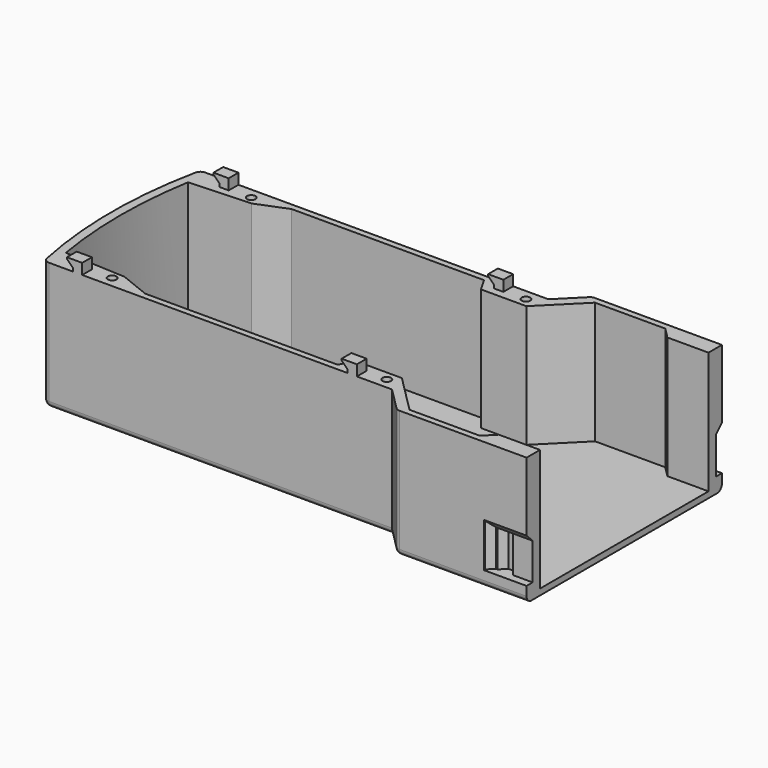
from build123d import *

# Parameters (mm, degrees)
EXTRUDE136072_DEPTH                     = 12
CHAMFER002_SIZE                         = 1
EXTRUDE136071_DEPTH                     = 15
CHAMFER001_SIZE                         = 2
SKETCH295_R                             = 1.4
EXTRUDE136074_DEPTH                     = 50
EXTRUDE136076_DEPTH                     = 4
EXTRUDE136076_ONTO_SKETCH296_ROLL_ANGLE = 90
EXTRUDE136075_DEPTH                     = 4
EXTRUDE136075_ONTO_SKETCH296_ROLL_ANGLE = 90
BOX022_W                                = 25
BOX022_H                                = 80
BOX022_DEPTH                            = 51
EXTRUDE136056_DEPTH                     = 40
EXTRUDE136055_DEPTH                     = 42
FILLET_R                                = 2


with BuildPart() as chamfer002:
    # Sketch293 → Extrude136072 (new body)
    with BuildSketch(Plane.XY):
        Polygon((0, 37.5), (5, 37.5), (5, 35.5), (2, 35.5), align=None)
        Polygon((0, -37.5), (5, -37.5), (5, -35.5), (2, -35.5), align=None)
    extrude(amount=-EXTRUDE136072_DEPTH)


with BuildPart() as chamfer002_1:
    # Extrude136072 placement: moved
    add(chamfer002.part.moved(Location((4, 0, 6))))

    # Chamfer002
    chamfer002_edges = [chamfer002_1.edges().sort_by_distance(p)[0] for p in [
        (7.5, -35.5, 6),
        (7.5, 35.5, 6),
    ]]
    chamfer(chamfer002_edges, length=CHAMFER002_SIZE)


with BuildPart() as fusion034004041070:
    # Sketch292 → Extrude136071 (new body)
    with BuildSketch(Plane.YZ):
        Polygon((-40, 8.5), (-37.5, 6), (-37.5, -6), (-40, -6), align=None)
        Polygon((40, 8.5), (37.5, 6), (37.5, -6), (40, -6), align=None)
    extrude(amount=EXTRUDE136071_DEPTH)

    # Chamfer001
    chamfer001_edges = [fusion034004041070.edges().sort_by_distance(p)[0] for p in [
        (0, 37.5, 0),
        (0, -37.5, 0),
    ]]
    chamfer(chamfer001_edges, length=CHAMFER001_SIZE)


with BuildPart() as fusion034004041070_1:
    # Chamfer001 placement: moved
    add(fusion034004041070.part.moved(Location((1.5, 0, 0))))

    # Fusion034004041070: union Chamfer002
    add(chamfer002_1.part)


with BuildPart() as fusion034004041070_2:
    # Fusion034004041070 placement: moved
    add(fusion034004041070_1.part.moved(Location((64.5, 0, -31))))


with BuildPart() as fusion034004041071:
    # Sketch295 → Extrude136074 (new body)
    with BuildSketch(Plane.XY):
        with Locations((-65, 28.5)):
            Circle(SKETCH295_R)
        with Locations((25, 28.5)):
            Circle(SKETCH295_R)
        with Locations((-65, -28.5)):
            Circle(SKETCH295_R)
        with Locations((25, -28.5)):
            Circle(SKETCH295_R)
    extrude(amount=-EXTRUDE136074_DEPTH)

    # Fusion034004041071: union Fusion034004041070
    add(fusion034004041070_2.part)


with BuildPart() as extrude136076:
    # Sketch296 as drawn → Extrude136076 (new)
    with BuildSketch(Plane.XY):
        Polygon((-77, 3.5), (-72, 3.5), (-72, 0), (-75, 0), (-75, 1), (-77, 3), align=None)
        Polygon((15, 0), (15, 1), (13, 3), (13, 3.5), (18, 3.5), (18, 0), align=None)
    extrude(amount=-EXTRUDE136076_DEPTH)


with BuildPart() as extrude136076_1:
    # Extrude136076 onto Sketch296 roll: moved
    add(extrude136076.part.rotate(Axis((0, 0, 0), (1, 0, 0)), EXTRUDE136076_ONTO_SKETCH296_ROLL_ANGLE))


with BuildPart() as extrude136076_2:
    # Extrude136076 onto Sketch296 placement: moved
    add(extrude136076_1.part.moved(Location((0, -2, 0))))


with BuildPart() as extrude136076_3:
    # Extrude136076 placement: moved
    add(extrude136076_2.part.moved(Location((0, -30, 0))))


with BuildPart() as fusion034004041067:
    # Sketch296 as drawn → Extrude136075 (new)
    with BuildSketch(Plane.XY):
        Polygon((-77, 3.5), (-72, 3.5), (-72, 0), (-75, 0), (-75, 1), (-77, 3), align=None)
        Polygon((15, 0), (15, 1), (13, 3), (13, 3.5), (18, 3.5), (18, 0), align=None)
    extrude(amount=-EXTRUDE136075_DEPTH)


with BuildPart() as fusion034004041067_1:
    # Extrude136075 onto Sketch296 roll: moved
    add(fusion034004041067.part.rotate(Axis((0, 0, 0), (1, 0, 0)), EXTRUDE136075_ONTO_SKETCH296_ROLL_ANGLE))


with BuildPart() as fusion034004041067_2:
    # Extrude136075 onto Sketch296 placement: moved
    add(fusion034004041067_1.part.moved(Location((0, -2, 0))))


with BuildPart() as fusion034004041067_3:
    # Extrude136075 placement: moved
    add(fusion034004041067_2.part.moved(Location((0, 30, 0))))

    # Fusion034004041067: union Extrude136076
    add(extrude136076_3.part)


with BuildPart() as cube019:
    # Box022 → Box022 (new body)
    with BuildSketch(Plane(origin=(80, -40, -44), x_dir=(1, 0, 0), z_dir=(0, 0, 1))):
        with Locations((12.5, 40)):
            Rectangle(BOX022_W, BOX022_H)
    extrude(amount=BOX022_DEPTH)


with BuildPart() as extrude136056:
    # Sketch277 → Extrude136056 (new body)
    with BuildSketch(Plane.XY):
        with BuildLine():
            ThreePointArc((81.0383, -34.5), (85.059706, 0), (81.0383, 34.5))
            Line((66.5383, 34.5), (81.0383, 34.5))
            Line((63.0383, 38), (66.5383, 34.5))
            Line((40.0383, 38), (63.0383, 38))
            Line((27.5383, 25.5), (40.0383, 38))
            Line((12.636376, 25.5), (27.5383, 25.5))
            Line((10.0383, 30), (12.636376, 25.5))
            Line((10.0383, 30), (-52.9617, 30))
            Line((-62.9617, 26), (-52.9617, 30))
            Line((-82.9617, 25), (-62.9617, 26))
            ThreePointArc((-82.9617, 25), (-85.059706, 0), (-82.9617, -25))
            Line((-82.9617, -25), (-62.9617, -26))
            Line((-62.9617, -26), (-52.9617, -30))
            Line((10.0383, -30), (-52.9617, -30))
            Line((10.0383, -30), (12.636376, -25.5))
            Line((12.636376, -25.5), (27.5383, -25.5))
            Line((27.5383, -25.5), (40.0383, -38))
            Line((40.0383, -38), (63.0383, -38))
            Line((63.0383, -38), (66.5383, -34.5))
            Line((66.5383, -34.5), (81.0383, -34.5))
        make_face()
    extrude(amount=-EXTRUDE136056_DEPTH)


with BuildPart() as batteryboxfillet:
    # Sketch276 → Extrude136055 (new body)
    with BuildSketch(Plane.XY):
        with BuildLine():
            ThreePointArc((-84.489299, 32), (-87.942378, 0), (-84.489299, -32))
            Line((-84.489299, -32), (29.510701, -32))
            Line((29.510701, -32), (37.510701, -40))
            Line((37.510701, -40), (82.510701, -40))
            ThreePointArc((82.510701, -40), (87.942378, 0), (82.510701, 40))
            Line((37.510701, 40), (82.510701, 40))
            Line((29.510701, 32), (37.510701, 40))
            Line((-84.489299, 32), (29.510701, 32))
        make_face()
    extrude(amount=-EXTRUDE136055_DEPTH)

    # Cut009010006006006005016: cut Extrude136056
    add(extrude136056.part, mode=Mode.SUBTRACT)

    # Cut009010006006006005021: cut Cube019
    add(cube019.part, mode=Mode.SUBTRACT)

    # Fusion034004041068: union Fusion034004041067
    add(fusion034004041067_3.part)

    # Cut009010006006006005024: cut Fusion034004041071
    add(fusion034004041071.part, mode=Mode.SUBTRACT)

    # Fillet
    fillet_edges = [batteryboxfillet.edges().sort_by_distance(p)[0] for p in [
        (-84.489299, 32, -21),
        (-84.489299, -32, -21),
        (-87.942378, 0, -42),
        (-27.489299, 32, -42),
        (-27.489299, -32, -42),
        (33.510701, 36, -42),
        (58.755351, 40, -42),
        (33.510701, -36, -42),
        (58.755351, -40, -42),
        (37.510701, 40, -21),
        (37.510701, -40, -21),
    ]]
    fillet(fillet_edges, radius=FILLET_R)


with BuildPart() as batteryboxfillet_1:
    # Fillet placement: moved
    add(batteryboxfillet.part.moved(Location((0, 0, -25.5))))


solid = batteryboxfillet_1.part
